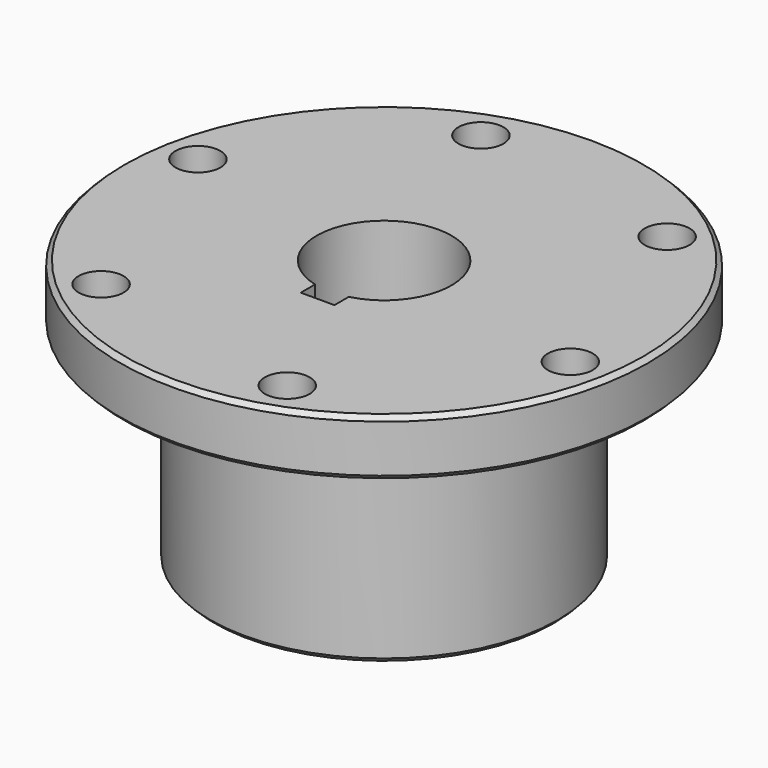
from build123d import *

# Parameters (mm, degrees)
F0_R      = 74.6125
F1_DEPTH  = 16.002
F2_R      = 49.2125
F3_DEPTH  = 58.674
F4_R      = 19.05
F5_DEPTH  = 74.677
F6_SIZE   = 1.27
F8_D      = 12.7
F8_DEPTH  = 19.05
F9_W      = 9.525
F9_H      = 27.94
F10_DEPTH = 74.677


with BuildPart() as f1:
    # F0 (on Top) → F1 (new body)
    with BuildSketch(Plane.XY):
        Circle(F0_R)
    extrude(amount=F1_DEPTH)

    # F2 (on face) → F3 (join)
    with BuildSketch(Plane(origin=(0, 0, 0), x_dir=(1, 0, 0), z_dir=(0, 0, -1))):
        Circle(F2_R)
    extrude(amount=F3_DEPTH)

    # F4 (on face) → F5 (cut, through all)
    with BuildSketch(Plane(origin=(0, 0, -58.674), x_dir=(1, 0, 0), z_dir=(0, 0, -1))):
        Circle(F4_R)
    extrude(amount=-F5_DEPTH, mode=Mode.SUBTRACT)

    # F6
    f6_edges = [f1.edges().sort_by_distance(p)[0] for p in [
        (-49.2125, 0, -58.674),
        (-74.6125, 0, 0),
        (-74.6125, 0, 16.002),
    ]]
    chamfer(f6_edges, length=F6_SIZE)

    # F8
    with Locations(Plane(origin=(0, 0, 0), x_dir=(1, 0, 0), z_dir=(0, 0, -1))):
        with Locations((-41.669327, 47.91573), (20.661576, 60.044561), (62.330903, 12.128831), (41.669327, -47.91573), (-20.661576, -60.044561), (-62.330903, -12.128831)):
            Hole(F8_D / 2, depth=F8_DEPTH)

    # F9 (on face) → F10 (cut, through all)
    with BuildSketch(Plane.XY.offset(16.002)):
        with Locations((0, -9.532987)):
            Rectangle(F9_W, F9_H)
    extrude(amount=-F10_DEPTH, mode=Mode.SUBTRACT)


solid = f1.part
